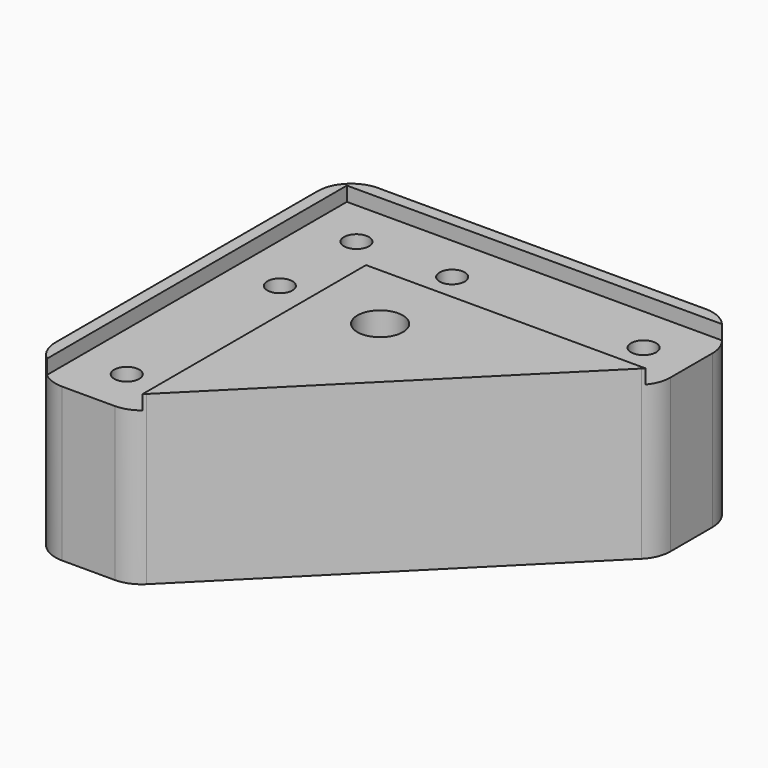
from build123d import *

# Parameters (mm, degrees)
SKETCH013_R          = 2.62
SKETCH013_R_2        = 2.65
PAD006_DEPTH         = 32
PAD006_DEPTH_BACK    = 3
SKETCH014_R          = 4.75
POCKET004_DEPTH      = 17
POCKET005_DEPTH      = 3.001
SKETCH109_R          = 4.75
POCKET055_DEPTH      = 22
POCKET055_DEPTH_BACK = 100


with BuildPart() as foot004:
    # Sketch013 → Pad006 (new body, two sides)
    with BuildSketch(Plane.XY) as pad006_sk:
        with BuildLine():
            Line((70, -5.5), (70, 5.5))
            ThreePointArc((70, 5.5), (69.467157, 8.178784), (67.949747, 10.449747))
            Line((67.949747, 10.449747), (10.449747, 67.949747))
            ThreePointArc((10.449747, 67.949747), (8.178784, 69.467157), (5.5, 70))
            Line((5.5, 70), (-5.5, 70))
            ThreePointArc((-5.5, 70), (-10.449747, 67.949747), (-12.5, 63))
            Line((-12.5, -5.5), (-12.5, 63))
            ThreePointArc((-12.5, -5.5), (-10.449747, -10.449747), (-5.5, -12.5))
            Line((-5.5, -12.5), (63, -12.5))
            ThreePointArc((63, -12.5), (67.949747, -10.449747), (70, -5.5))
        make_face()
        with Locations((20, 0)):
            Circle(SKETCH013_R, mode=Mode.SUBTRACT)
        with Locations((60, 0)):
            Circle(SKETCH013_R, mode=Mode.SUBTRACT)
        Circle(SKETCH013_R, mode=Mode.SUBTRACT)
        with Locations((0, 60)):
            Circle(SKETCH013_R, mode=Mode.SUBTRACT)
        with Locations((0, 20)):
            Circle(SKETCH013_R, mode=Mode.SUBTRACT)
        with Locations((24.748737, 24.748737)):
            Circle(SKETCH013_R_2, mode=Mode.SUBTRACT)
    extrude(amount=-PAD006_DEPTH)
    extrude(pad006_sk.sketch, amount=PAD006_DEPTH_BACK)

    # Sketch014 → Pocket004 (cut)
    with BuildSketch(Plane.XY.offset(-32)):
        with Locations((0, 60)):
            Circle(SKETCH014_R)
        Circle(SKETCH014_R)
        with Locations((20, 0)):
            Circle(SKETCH014_R)
        with Locations((60, 0)):
            Circle(SKETCH014_R)
        with Locations((0, 20)):
            Circle(SKETCH014_R)
    extrude(amount=POCKET004_DEPTH, mode=Mode.SUBTRACT)

    # Sketch016 → Pocket005 (cut, through all)
    with BuildSketch(Plane.XY):
        Polygon((10, 100), (10, 10), (140, 10), (140, -10), (-10, -10), (-10, 100), align=None)
    extrude(amount=POCKET005_DEPTH, mode=Mode.SUBTRACT)

    # Sketch109 → Pocket055 (cut, two sides)
    with BuildSketch(Plane.XY) as pocket055_sk:
        with Locations((24.748737, 24.748737)):
            Circle(SKETCH109_R)
    extrude(amount=-POCKET055_DEPTH, mode=Mode.SUBTRACT)
    extrude(pocket055_sk.sketch, amount=POCKET055_DEPTH_BACK, mode=Mode.SUBTRACT)


with BuildPart() as foot1:
    # Part__Mirroring: instance of Foot004
    add(foot004.part.mirror(Plane(origin=(38.75, -2e-06, -14.5), x_dir=(1, 0, 0), z_dir=(0, 1, 0))))


with BuildPart() as foot1_1:
    # Part__Mirroring placement: moved
    add(foot1.part.moved(Location((10, 686, 0))))


solid = foot1_1.part
